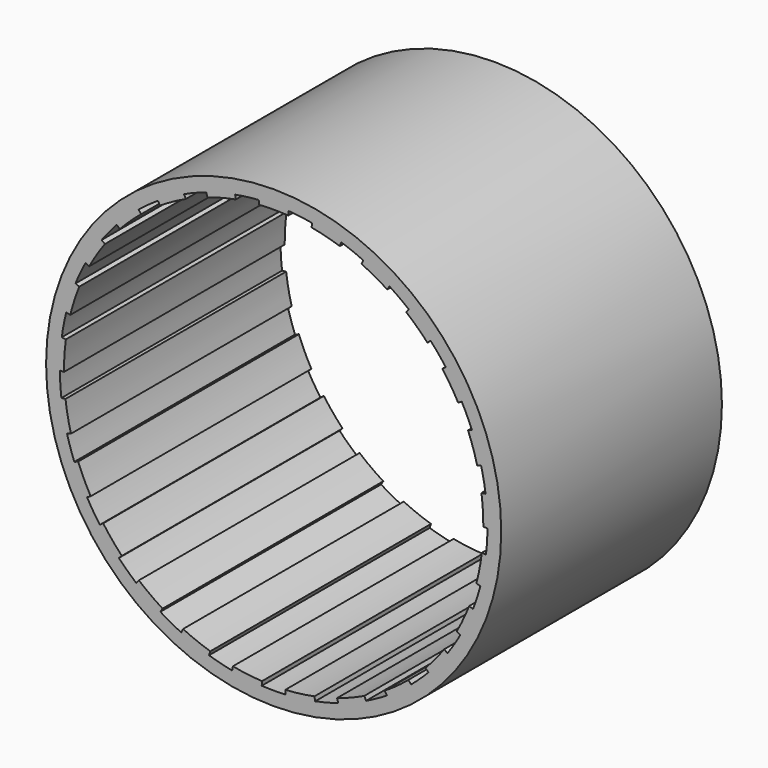
from build123d import *

# Parameters (mm, degrees)
F0_R     = 20.955
F1_DEPTH = 25.4
F2_DEPTH = 25.4


with BuildPart() as f1:
    # F0 (on Front) → F1 (new body)
    with BuildSketch(Plane.XZ):
        Circle(F0_R)
        with BuildLine():
            ThreePointArc((-1.375198, 19.636905), (0, 19.685), (1.375198, 19.636905))
            ThreePointArc((1.375198, 19.636905), (2.467185, 19.529778), (3.551506, 19.361974))
            ThreePointArc((3.551506, 19.361974), (4.89546, 19.06656), (6.215494, 18.677978))
            ThreePointArc((6.215494, 18.677978), (7.246532, 18.30265), (8.255056, 17.870458))
            ThreePointArc((8.255056, 17.870458), (9.483321, 17.250097), (10.665247, 16.545445))
            ThreePointArc((10.665247, 16.545445), (11.570553, 15.9255), (12.439911, 15.256076))
            ThreePointArc((12.439911, 15.256076), (13.47531, 14.349747), (14.444863, 13.3733))
            ThreePointArc((14.444863, 13.3733), (15.167553, 12.547691), (15.84312, 11.683098))
            ThreePointArc((15.84312, 11.683098), (16.620595, 10.54775), (17.316856, 9.360862))
            ThreePointArc((17.316856, 9.360862), (17.811521, 8.381465), (18.250847, 7.376029))
            ThreePointArc((18.250847, 7.376029), (18.721548, 6.083), (19.100766, 4.760246))
            ThreePointArc((19.100766, 4.760246), (19.336325, 3.688601), (19.511807, 2.605496))
            ThreePointArc((19.511807, 2.605496), (19.641654, 1.305623), (19.685, 0))
            ThreePointArc((19.685, 0), (19.684876, -0.069737), (19.684506, -0.139473))
            ThreePointArc((19.684506, -0.139473), (19.646156, -1.236031), (19.546768, -2.32875))
            ThreePointArc((19.546768, -2.32875), (19.336325, -3.688601), (19.031395, -5.030429))
            ThreePointArc((19.031395, -5.030429), (18.721548, -6.083), (18.353534, -7.116671))
            ThreePointArc((18.353534, -7.116671), (17.811521, -8.381465), (17.182472, -9.605304))
            ThreePointArc((17.182472, -9.605304), (16.620595, -10.54775), (16.00708, -11.457426))
            ThreePointArc((16.00708, -11.457426), (15.167553, -12.547691), (14.253911, -13.576643))
            ThreePointArc((14.253911, -13.576643), (13.47531, -14.349747), (12.654842, -15.078269))
            ThreePointArc((12.654842, -15.078269), (11.570553, -15.9255), (10.429725, -16.694911))
            ThreePointArc((10.429725, -16.694911), (9.483321, -17.250097), (8.507454, -17.751689))
            ThreePointArc((8.507454, -17.751689), (7.246532, -18.30265), (5.9502, -18.764177))
            ThreePointArc((5.9502, -18.764177), (4.89546, -19.06656), (3.825511, -19.309705))
            ThreePointArc((3.825511, -19.309705), (2.467185, -19.529778), (1.096803, -19.654421))
            ThreePointArc((1.096803, -19.654421), (0, -19.685), (-1.096803, -19.654421))
            ThreePointArc((-1.096803, -19.654421), (-2.467185, -19.529778), (-3.825511, -19.309705))
            ThreePointArc((-3.825511, -19.309705), (-4.89546, -19.06656), (-5.9502, -18.764177))
            ThreePointArc((-5.9502, -18.764177), (-7.246532, -18.30265), (-8.507454, -17.751689))
            ThreePointArc((-8.507454, -17.751689), (-9.483321, -17.250097), (-10.429725, -16.694911))
            ThreePointArc((-10.429725, -16.694911), (-11.570553, -15.9255), (-12.654842, -15.078269))
            ThreePointArc((-12.654842, -15.078269), (-13.47531, -14.349747), (-14.253911, -13.576643))
            ThreePointArc((-14.253911, -13.576643), (-15.167553, -12.547691), (-16.00708, -11.457426))
            ThreePointArc((-16.00708, -11.457426), (-16.620595, -10.54775), (-17.182472, -9.605304))
            ThreePointArc((-17.182472, -9.605304), (-17.811521, -8.381465), (-18.353534, -7.116671))
            ThreePointArc((-18.353534, -7.116671), (-18.721548, -6.083), (-19.031395, -5.030429))
            ThreePointArc((-19.031395, -5.030429), (-19.336325, -3.688601), (-19.546768, -2.32875))
            ThreePointArc((-19.546768, -2.32875), (-19.646156, -1.236031), (-19.684506, -0.139473))
            ThreePointArc((-19.684506, -0.139473), (-19.646156, 1.236031), (-19.511807, 2.605496))
            ThreePointArc((-19.511807, 2.605496), (-19.336325, 3.688601), (-19.100766, 4.760246))
            ThreePointArc((-19.100766, 4.760246), (-18.721548, 6.083), (-18.250847, 7.376029))
            ThreePointArc((-18.250847, 7.376029), (-17.811521, 8.381465), (-17.316856, 9.360862))
            ThreePointArc((-17.316856, 9.360862), (-16.620595, 10.54775), (-15.84312, 11.683098))
            ThreePointArc((-15.84312, 11.683098), (-15.167553, 12.547691), (-14.444863, 13.3733))
            ThreePointArc((-14.444863, 13.3733), (-13.47531, 14.349747), (-12.439911, 15.256076))
            ThreePointArc((-12.439911, 15.256076), (-11.570553, 15.9255), (-10.665247, 16.545445))
            ThreePointArc((-10.665247, 16.545445), (-9.483321, 17.250097), (-8.255056, 17.870458))
            ThreePointArc((-8.255056, 17.870458), (-7.246532, 18.30265), (-6.215494, 18.677978))
            ThreePointArc((-6.215494, 18.677978), (-4.89546, 19.06656), (-3.551506, 19.361974))
            ThreePointArc((-3.551506, 19.361974), (-2.467185, 19.529778), (-1.375198, 19.636905))
        make_face(mode=Mode.SUBTRACT)
    extrude(amount=F1_DEPTH)

    # F0 (on Front) → F2 (join)
    with BuildSketch(Plane.XZ):
        with BuildLine():
            Line((1.348581, 19.256836), (1.375198, 19.636905))
            ThreePointArc((1.375198, 19.636905), (0, 19.685), (-1.375198, 19.636905))
            Line((-1.375198, 19.636905), (-1.348581, 19.256836))
            ThreePointArc((-1.348581, 19.256836), (0, 19.304), (1.348581, 19.256836))
        make_face()
        with BuildLine():
            Line((-3.482767, 18.987226), (-3.551506, 19.361974))
            ThreePointArc((-3.551506, 19.361974), (-4.89546, 19.06656), (-6.215494, 18.677978))
            Line((-6.215494, 18.677978), (-6.095194, 18.316469))
            ThreePointArc((-6.095194, 18.316469), (-4.80071, 18.697529), (-3.482767, 18.987226))
        make_face()
        with BuildLine():
            Line((-8.095281, 17.524578), (-8.255056, 17.870458))
            ThreePointArc((-8.255056, 17.870458), (-9.483321, 17.250097), (-10.665247, 16.545445))
            Line((-10.665247, 16.545445), (-10.458822, 16.22521))
            ThreePointArc((-10.458822, 16.22521), (-9.299773, 16.916224), (-8.095281, 17.524578))
        make_face()
        with BuildLine():
            Line((-12.199138, 14.960797), (-12.439911, 15.256076))
            ThreePointArc((-12.439911, 15.256076), (-13.47531, 14.349747), (-14.444863, 13.3733))
            Line((-14.444863, 13.3733), (-14.165285, 13.114462))
            ThreePointArc((-14.165285, 13.114462), (-13.214497, 14.07201), (-12.199138, 14.960797))
        make_face()
        with BuildLine():
            Line((-15.536479, 11.456974), (-15.84312, 11.683098))
            ThreePointArc((-15.84312, 11.683098), (-16.620595, 10.54775), (-17.316856, 9.360862))
            Line((-17.316856, 9.360862), (-16.981691, 9.179684))
            ThreePointArc((-16.981691, 9.179684), (-16.298906, 10.3436), (-15.536479, 11.456974))
        make_face()
        with BuildLine():
            Line((-17.897605, 7.233267), (-18.250847, 7.376029))
            ThreePointArc((-18.250847, 7.376029), (-18.721548, 6.083), (-19.100766, 4.760246))
            Line((-19.100766, 4.760246), (-18.731074, 4.668113))
            ThreePointArc((-18.731074, 4.668113), (-18.359195, 5.965264), (-17.897605, 7.233267))
        make_face()
        with BuildLine():
            Line((-19.134159, 2.555067), (-19.511807, 2.605496))
            ThreePointArc((-19.511807, 2.605496), (-19.646156, 1.236031), (-19.684506, -0.139473))
            Line((-19.684506, -0.139473), (-19.303515, -0.136773))
            ThreePointArc((-19.303515, -0.136773), (-19.265908, 1.212108), (-19.134159, 2.555067))
        make_face()
        with BuildLine():
            Line((-19.168444, -2.283677), (-19.546768, -2.32875))
            ThreePointArc((-19.546768, -2.32875), (-19.336325, -3.688601), (-19.031395, -5.030429))
            Line((-19.031395, -5.030429), (-18.663046, -4.933066))
            ThreePointArc((-18.663046, -4.933066), (-18.962073, -3.617209), (-19.168444, -2.283677))
        make_face()
        with BuildLine():
            Line((-17.998304, -6.978929), (-18.353534, -7.116671))
            ThreePointArc((-18.353534, -7.116671), (-17.811521, -8.381465), (-17.182472, -9.605304))
            Line((-17.182472, -9.605304), (-16.849908, -9.419395))
            ThreePointArc((-16.849908, -9.419395), (-17.466781, -8.219243), (-17.998304, -6.978929))
        make_face()
        with BuildLine():
            Line((-15.697265, -11.23567), (-16.00708, -11.457426))
            ThreePointArc((-16.00708, -11.457426), (-15.167553, -12.547691), (-14.253911, -13.576643))
            Line((-14.253911, -13.576643), (-13.978029, -13.313869))
            ThreePointArc((-13.978029, -13.313869), (-14.873988, -12.304833), (-15.697265, -11.23567))
        make_face()
        with BuildLine():
            Line((-12.40991, -14.786432), (-12.654842, -15.078269))
            ThreePointArc((-12.654842, -15.078269), (-11.570553, -15.9255), (-10.429725, -16.694911))
            Line((-10.429725, -16.694911), (-10.227859, -16.371784))
            ThreePointArc((-10.227859, -16.371784), (-11.346607, -15.617264), (-12.40991, -14.786432))
        make_face()
        with BuildLine():
            Line((-8.342793, -17.408108), (-8.507454, -17.751689))
            ThreePointArc((-8.507454, -17.751689), (-7.246532, -18.30265), (-5.9502, -18.764177))
            Line((-5.9502, -18.764177), (-5.835035, -18.400999))
            ThreePointArc((-5.835035, -18.400999), (-7.106276, -17.948405), (-8.342793, -17.408108))
        make_face()
        with BuildLine():
            Line((-3.751469, -18.935968), (-3.825511, -19.309705))
            ThreePointArc((-3.825511, -19.309705), (-2.467185, -19.529778), (-1.096803, -19.654421))
            Line((-1.096803, -19.654421), (-1.075574, -19.274012))
            ThreePointArc((-1.075574, -19.274012), (-2.419433, -19.151782), (-3.751469, -18.935968))
        make_face()
        with BuildLine():
            ThreePointArc((1.096803, -19.654421), (2.467185, -19.529778), (3.825511, -19.309705))
            Line((3.825511, -19.309705), (3.751469, -18.935968))
            ThreePointArc((3.751469, -18.935968), (2.419433, -19.151782), (1.075574, -19.274012))
            Line((1.075574, -19.274012), (1.096803, -19.654421))
        make_face()
        with BuildLine():
            ThreePointArc((5.9502, -18.764177), (7.246532, -18.30265), (8.507454, -17.751689))
            Line((8.507454, -17.751689), (8.342793, -17.408108))
            ThreePointArc((8.342793, -17.408108), (7.106276, -17.948405), (5.835035, -18.400999))
            Line((5.835035, -18.400999), (5.9502, -18.764177))
        make_face()
        with BuildLine():
            ThreePointArc((10.429725, -16.694911), (11.570553, -15.9255), (12.654842, -15.078269))
            Line((12.654842, -15.078269), (12.40991, -14.786432))
            ThreePointArc((12.40991, -14.786432), (11.346607, -15.617264), (10.227859, -16.371784))
            Line((10.227859, -16.371784), (10.429725, -16.694911))
        make_face()
        with BuildLine():
            ThreePointArc((14.253911, -13.576643), (15.167553, -12.547691), (16.00708, -11.457426))
            Line((16.00708, -11.457426), (15.697265, -11.23567))
            ThreePointArc((15.697265, -11.23567), (14.873988, -12.304833), (13.978029, -13.313869))
            Line((13.978029, -13.313869), (14.253911, -13.576643))
        make_face()
        with BuildLine():
            ThreePointArc((17.182472, -9.605304), (17.811521, -8.381465), (18.353534, -7.116671))
            Line((18.353534, -7.116671), (17.998304, -6.978929))
            ThreePointArc((17.998304, -6.978929), (17.466781, -8.219243), (16.849908, -9.419395))
            Line((16.849908, -9.419395), (17.182472, -9.605304))
        make_face()
        with BuildLine():
            ThreePointArc((19.031395, -5.030429), (19.336325, -3.688601), (19.546768, -2.32875))
            Line((19.546768, -2.32875), (19.168444, -2.283677))
            ThreePointArc((19.168444, -2.283677), (18.962073, -3.617209), (18.663046, -4.933066))
            Line((18.663046, -4.933066), (19.031395, -5.030429))
        make_face()
        with BuildLine():
            ThreePointArc((19.685, 0), (19.641654, 1.305623), (19.511807, 2.605496))
            Line((19.511807, 2.605496), (19.134159, 2.555067))
            ThreePointArc((19.134159, 2.555067), (19.265908, 1.212108), (19.303515, -0.136773))
            Line((19.303515, -0.136773), (19.684506, -0.139473))
            ThreePointArc((19.684506, -0.139473), (19.684876, -0.069737), (19.685, 0))
        make_face()
        with BuildLine():
            ThreePointArc((19.100766, 4.760246), (18.721548, 6.083), (18.250847, 7.376029))
            Line((18.250847, 7.376029), (17.897605, 7.233267))
            ThreePointArc((17.897605, 7.233267), (18.359195, 5.965264), (18.731074, 4.668113))
            Line((18.731074, 4.668113), (19.100766, 4.760246))
        make_face()
        with BuildLine():
            ThreePointArc((17.316856, 9.360862), (16.620595, 10.54775), (15.84312, 11.683098))
            Line((15.84312, 11.683098), (15.536479, 11.456974))
            ThreePointArc((15.536479, 11.456974), (16.298906, 10.3436), (16.981691, 9.179684))
            Line((16.981691, 9.179684), (17.316856, 9.360862))
        make_face()
        with BuildLine():
            ThreePointArc((14.444863, 13.3733), (13.47531, 14.349747), (12.439911, 15.256076))
            Line((12.439911, 15.256076), (12.199138, 14.960797))
            ThreePointArc((12.199138, 14.960797), (13.214497, 14.07201), (14.165285, 13.114462))
            Line((14.165285, 13.114462), (14.444863, 13.3733))
        make_face()
        with BuildLine():
            ThreePointArc((10.665247, 16.545445), (9.483321, 17.250097), (8.255056, 17.870458))
            Line((8.255056, 17.870458), (8.095281, 17.524578))
            ThreePointArc((8.095281, 17.524578), (9.299773, 16.916224), (10.458822, 16.22521))
            Line((10.458822, 16.22521), (10.665247, 16.545445))
        make_face()
        with BuildLine():
            ThreePointArc((6.215494, 18.677978), (4.89546, 19.06656), (3.551506, 19.361974))
            Line((3.551506, 19.361974), (3.482767, 18.987226))
            ThreePointArc((3.482767, 18.987226), (4.80071, 18.697529), (6.095194, 18.316469))
            Line((6.095194, 18.316469), (6.215494, 18.677978))
        make_face()
    extrude(amount=F2_DEPTH)


solid = f1.part
